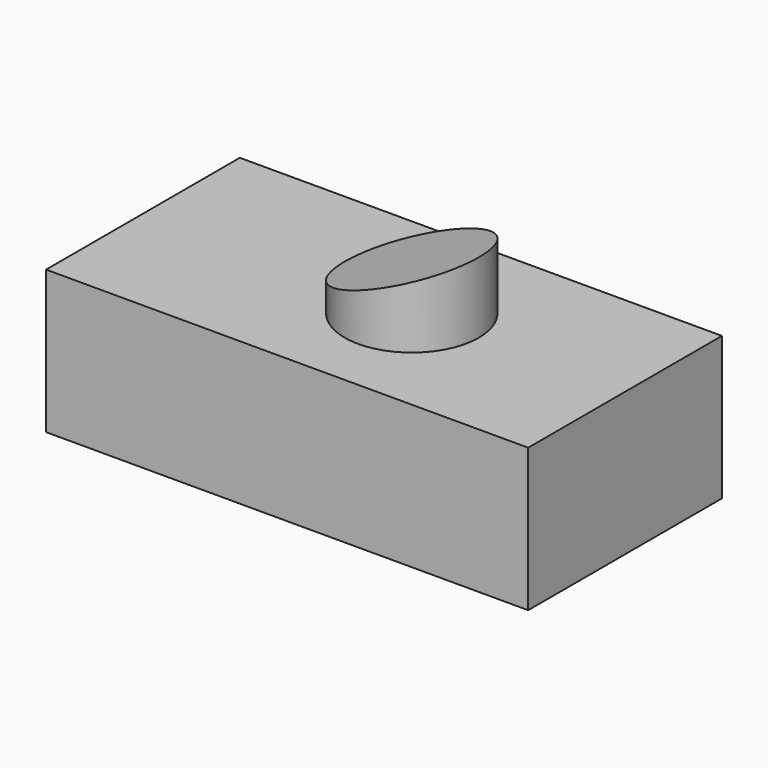
from build123d import *

# Parameters (mm, degrees)
F0_W          = 303.4089505672
F0_H          = 90.0540538132
F2_DEPTH      = 76.2
F2_DEPTH_BACK = 76.2
F5_DEPTH      = 50.8
F5_DEPTH_BACK = 50.8


with BuildPart() as f2:
    # F0 (on Front) → F2 (new body, two sides)
    with BuildSketch(Plane.XZ) as f2_sk:
        with Locations((-2.6078522205, -14.2760109156)):
            Rectangle(F0_W, F0_H)
    extrude(amount=F2_DEPTH)
    extrude(f2_sk.sketch, amount=-F2_DEPTH_BACK)

    # F1 (on Front) → F3 (revolve)
    with BuildSketch(Plane.XZ):
        Polygon((57.057470793, -54.4762127101), (57.057470793, 76.3475820422), (14.8637248203, 62.2137170317), (14.8637248203, -54.4762127101), align=None)
        Polygon((57.057470793, 76.3475820422), (14.8637248203, 76.3475820422), (14.8637248203, 62.2137170317), align=None)
    revolve(axis=Axis((14.8637248203, 0, 10.935684666), (0, 0, -1)))

    # F4 (on Front) → F5 (cut, two sides)
    with BuildSketch(Plane.XZ) as f5_sk:
        Polygon((-45.7748621702, 39.0245653689), (70.5238878727, 80.0711810589), (-45.7748621702, 80.3245604038), align=None)
    extrude(amount=-F5_DEPTH, mode=Mode.SUBTRACT)
    extrude(f5_sk.sketch, amount=F5_DEPTH_BACK, mode=Mode.SUBTRACT)


solid = f2.part
